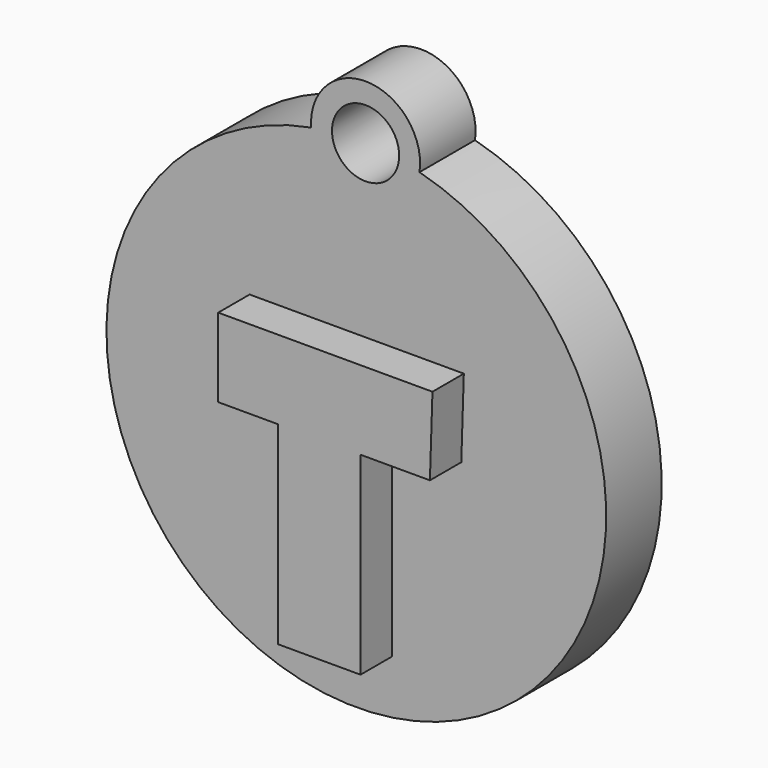
from build123d import *

# Parameters (mm, degrees)
F0_R     = 2.306081
F1_DEPTH = 4.7625
F2_W     = 5.668672
F2_H     = 13.29764
F3_DEPTH = 2.6924


with BuildPart() as f1:
    # F0 (on Front) → F1 (new body)
    with BuildSketch(Plane.XZ):
        with BuildLine():
            ThreePointArc((-3.100331, 16.875266), (-0.634898, -17.145949), (4.339878, 16.599763))
            ThreePointArc((4.339878, 16.599763), (0.773477, 20.888408), (-3.100331, 16.875266))
        make_face()
        with Locations((0.634898, 17.145949)):
            Circle(F0_R, mode=Mode.SUBTRACT)
    extrude(amount=F1_DEPTH)

    # F2 (on face) → F3 (join)
    with BuildSketch(Plane.XZ.offset(4.7625)):
        Polygon((-7.326433, 5.411912), (-7.326433, 0), (-3.225957, 0), (2.442715, 0), (6.360534, 0), (7.207565, 0), (7.381472, 5.411912), align=None)
        with Locations((-0.391621, -6.64882)):
            Rectangle(F2_W, F2_H)
    extrude(amount=F3_DEPTH)


solid = f1.part
